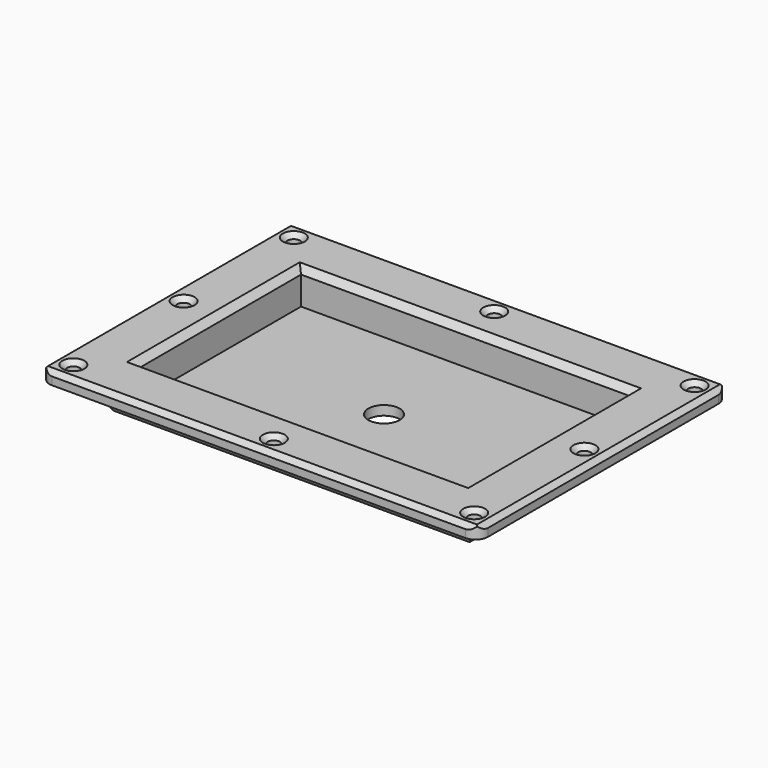
from build123d import *

# Parameters (mm, degrees)
CYLINDER008_R     = 2
CYLINDER008_DEPTH = 20
CYLINDER007_R     = 2
CYLINDER007_DEPTH = 20
CYLINDER006_R     = 5
CYLINDER006_DEPTH = 20
BOX002_W          = 105
BOX002_H          = 65
BOX002_DEPTH      = 20
BOX001_W          = 115
BOX001_H          = 75
BOX001_DEPTH      = 10
FILLET_R          = 2
CYLINDER003_R     = 2
CYLINDER003_DEPTH = 10
CYLINDER002_R     = 2
CYLINDER002_DEPTH = 10
CYLINDER004_R     = 2
CYLINDER004_DEPTH = 10
CYLINDER005_R     = 2
CYLINDER005_DEPTH = 10
CYLINDER001_R     = 2
CYLINDER001_DEPTH = 10
CYLINDER_R        = 2
CYLINDER_DEPTH    = 10
BOX_W             = 140
BOX_H             = 100
BOX_DEPTH         = 4
CHAMFER_SIZE      = 1.5
CHAMFER001_SIZE   = 2
FILLET001_R       = 4
FILLET002_R       = 4
CHAMFER002_SIZE   = 1.5


with BuildPart() as cylinder008:
    # Cylinder008 → Cylinder008 (new body)
    with BuildSketch(Plane(origin=(70, 6, 0), x_dir=(1, 0, 0), z_dir=(0, 0, 1))):
        Circle(CYLINDER008_R)
    extrude(amount=CYLINDER008_DEPTH)


with BuildPart() as cylinder007:
    # Cylinder007 → Cylinder007 (new body)
    with BuildSketch(Plane(origin=(70, 94, 0), x_dir=(1, 0, 0), z_dir=(0, 0, 1))):
        Circle(CYLINDER007_R)
    extrude(amount=CYLINDER007_DEPTH)


with BuildPart() as cylinder006:
    # Cylinder006 → Cylinder006 (new body)
    with BuildSketch(Plane(origin=(70, 50, -5), x_dir=(1, 0, 0), z_dir=(0, 0, 1))):
        Circle(CYLINDER006_R)
    extrude(amount=CYLINDER006_DEPTH)


with BuildPart() as cube002:
    # Box002 → Box002 (new body)
    with BuildSketch(Plane(origin=(17.5, 17.5, 3), x_dir=(1, 0, 0), z_dir=(0, 0, 1))):
        with Locations((52.5, 32.5)):
            Rectangle(BOX002_W, BOX002_H)
    extrude(amount=BOX002_DEPTH)


with BuildPart() as fillet_body:
    # Box001 → Box001 (new body)
    with BuildSketch(Plane(origin=(12.5, 12.5, 0), x_dir=(1, 0, 0), z_dir=(0, 0, 1))):
        with Locations((57.5, 37.5)):
            Rectangle(BOX001_W, BOX001_H)
    extrude(amount=BOX001_DEPTH)

    # Fillet
    fillet_edges = [fillet_body.edges().sort_by_distance(p)[0] for p in [
        (12.5, 50, 0),
        (127.5, 50, 0),
        (70, 12.5, 0),
        (70, 87.5, 0),
    ]]
    fillet(fillet_edges, radius=FILLET_R)


with BuildPart() as cylinder003:
    # Cylinder003 → Cylinder003 (new body)
    with BuildSketch(Plane(origin=(6, 94, 0), x_dir=(1, 0, 0), z_dir=(0, 0, 1))):
        Circle(CYLINDER003_R)
    extrude(amount=CYLINDER003_DEPTH)


with BuildPart() as cylinder002:
    # Cylinder002 → Cylinder002 (new body)
    with BuildSketch(Plane(origin=(6, 50, 0), x_dir=(1, 0, 0), z_dir=(0, 0, 1))):
        Circle(CYLINDER002_R)
    extrude(amount=CYLINDER002_DEPTH)


with BuildPart() as cylinder004:
    # Cylinder004 → Cylinder004 (new body)
    with BuildSketch(Plane(origin=(6, 6, 0), x_dir=(1, 0, 0), z_dir=(0, 0, 1))):
        Circle(CYLINDER004_R)
    extrude(amount=CYLINDER004_DEPTH)


with BuildPart() as cylinder005:
    # Cylinder005 → Cylinder005 (new body)
    with BuildSketch(Plane(origin=(134, 94, 0), x_dir=(1, 0, 0), z_dir=(0, 0, 1))):
        Circle(CYLINDER005_R)
    extrude(amount=CYLINDER005_DEPTH)


with BuildPart() as cylinder001:
    # Cylinder001 → Cylinder001 (new body)
    with BuildSketch(Plane(origin=(134, 50, 0), x_dir=(1, 0, 0), z_dir=(0, 0, 1))):
        Circle(CYLINDER001_R)
    extrude(amount=CYLINDER001_DEPTH)


with BuildPart() as cylinder:
    # Cylinder → Cylinder (new body)
    with BuildSketch(Plane(origin=(134, 6, 0), x_dir=(1, 0, 0), z_dir=(0, 0, 1))):
        Circle(CYLINDER_R)
    extrude(amount=CYLINDER_DEPTH)


with BuildPart() as chamfer002:
    # Box → Box (new body)
    with BuildSketch(Plane.XY):
        with Locations((70, 50)):
            Rectangle(BOX_W, BOX_H)
    extrude(amount=BOX_DEPTH)

    # Cut: cut Cylinder
    add(cylinder.part, mode=Mode.SUBTRACT)

    # Cut001: cut Cylinder001
    add(cylinder001.part, mode=Mode.SUBTRACT)

    # Cut002: cut Cylinder005
    add(cylinder005.part, mode=Mode.SUBTRACT)

    # Cut003: cut Cylinder004
    add(cylinder004.part, mode=Mode.SUBTRACT)

    # Cut004: cut Cylinder002
    add(cylinder002.part, mode=Mode.SUBTRACT)

    # Cut005: cut Cylinder003
    add(cylinder003.part, mode=Mode.SUBTRACT)


with BuildPart() as chamfer002_1:
    # Cut005 placement: moved
    add(chamfer002.part.moved(Location((0, 0, 10))))

    # Chamfer
    chamfer_edges = [chamfer002_1.edges().sort_by_distance(p)[0] for p in [
        (4, 50, 14),
        (4, 6, 14),
        (0, 50, 14),
        (70, 100, 14),
        (70, 0, 14),
        (140, 50, 14),
        (4, 94, 14),
        (132, 94, 14),
        (132, 50, 14),
        (132, 6, 14),
    ]]
    chamfer(chamfer_edges, length=CHAMFER_SIZE)

    # Fusion: union Fillet body
    add(fillet_body.part)

    # Cut006: cut Cube002
    add(cube002.part, mode=Mode.SUBTRACT)

    # Cut007: cut Cylinder006
    add(cylinder006.part, mode=Mode.SUBTRACT)

    # Chamfer001
    chamfer001_edges = [chamfer002_1.edges().sort_by_distance(p)[0] for p in [
        (122.5, 50, 14),
        (70, 17.5, 14),
        (17.5, 50, 14),
        (70, 82.5, 14),
    ]]
    chamfer(chamfer001_edges, length=CHAMFER001_SIZE)

    # Fillet001
    fillet001_edges = [chamfer002_1.edges().sort_by_distance(p)[0] for p in [
        (140, 0, 11.25),
        (140, 100, 11.25),
    ]]
    fillet(fillet001_edges, radius=FILLET001_R)

    # Fillet002
    fillet002_edges = [chamfer002_1.edges().sort_by_distance(p)[0] for p in [
        (0, 0, 11.25),
        (0, 100, 11.25),
    ]]
    fillet(fillet002_edges, radius=FILLET002_R)

    # Cut008: cut Cylinder007
    add(cylinder007.part, mode=Mode.SUBTRACT)

    # Cut009: cut Cylinder008
    add(cylinder008.part, mode=Mode.SUBTRACT)

    # Chamfer002
    chamfer002_edges = [chamfer002_1.edges().sort_by_distance(p)[0] for p in [
        (68, 6, 14),
        (68, 94, 14),
    ]]
    chamfer(chamfer002_edges, length=CHAMFER002_SIZE)


solid = chamfer002_1.part
